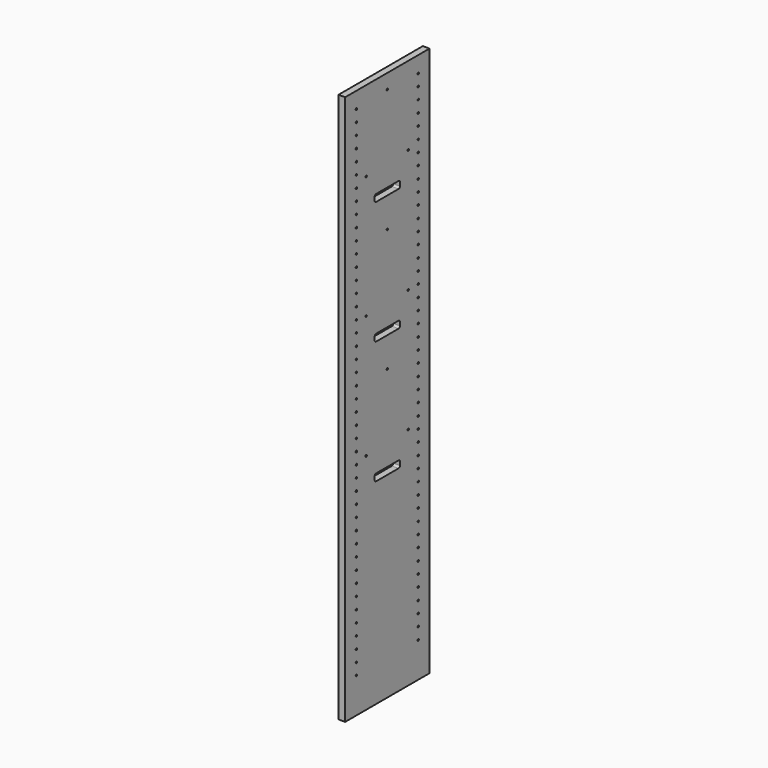
from build123d import *

# Parameters (mm, degrees)
F1_R     = 2.5
F2_DEPTH = 10
F1_W     = 300
F1_H     = 1565
F3_DEPTH = 19


with BuildPart() as f2:
    # F1 (on Right) → F2 (new body)
    with BuildSketch(Plane.YZ):
        with Locations((260, 1115)):
            Circle(F1_R)
        with Locations((260, 884)):
            Circle(F1_R)
        with Locations((260, 686)):
            Circle(F1_R)
        with Locations((260, 1544)):
            Circle(F1_R)
        with Locations((260, 1214)):
            Circle(F1_R)
        with Locations((260, 917)):
            Circle(F1_R)
        with Locations((260, 785)):
            Circle(F1_R)
        with Locations((260, 1445)):
            Circle(F1_R)
        with Locations((260, 752)):
            Circle(F1_R)
        with Locations((260, 719)):
            Circle(F1_R)
        with Locations((260, 620)):
            Circle(F1_R)
        with Locations((260, 1346)):
            Circle(F1_R)
        with Locations((260, 1247)):
            Circle(F1_R)
        with Locations((260, 950)):
            Circle(F1_R)
        with Locations((260, 1181)):
            Circle(F1_R)
        with Locations((260, 818)):
            Circle(F1_R)
        with Locations((260, 587)):
            Circle(F1_R)
        with Locations((260, 653)):
            Circle(F1_R)
        with Locations((260, 1016)):
            Circle(F1_R)
        with Locations((260, 1049)):
            Circle(F1_R)
        with Locations((260, 1148)):
            Circle(F1_R)
        with Locations((260, 1511)):
            Circle(F1_R)
        with Locations((260, 1412)):
            Circle(F1_R)
        with Locations((260, 983)):
            Circle(F1_R)
        with Locations((260, 1313)):
            Circle(F1_R)
        with Locations((260, 1478)):
            Circle(F1_R)
        with Locations((260, 851)):
            Circle(F1_R)
        with Locations((260, 1379)):
            Circle(F1_R)
        with Locations((260, 1082)):
            Circle(F1_R)
        with Locations((260, 1280)):
            Circle(F1_R)
        with Locations((40, 587)):
            Circle(F1_R)
        with Locations((40, 653)):
            Circle(F1_R)
        with Locations((40, 620)):
            Circle(F1_R)
        with Locations((40, 422)):
            Circle(F1_R)
        with Locations((40, 1478)):
            Circle(F1_R)
        with Locations((40, 389)):
            Circle(F1_R)
        with Locations((40, 983)):
            Circle(F1_R)
        with Locations((40, 1346)):
            Circle(F1_R)
        with Locations((40, 818)):
            Circle(F1_R)
        with Locations((40, 851)):
            Circle(F1_R)
        with Locations((40, 455)):
            Circle(F1_R)
        with Locations((40, 719)):
            Circle(F1_R)
        with Locations((40, 356)):
            Circle(F1_R)
        with Locations((40, 257)):
            Circle(F1_R)
        with Locations((40, 785)):
            Circle(F1_R)
        with Locations((40, 1082)):
            Circle(F1_R)
        with Locations((40, 1511)):
            Circle(F1_R)
        with Locations((40, 1049)):
            Circle(F1_R)
        with Locations((40, 554)):
            Circle(F1_R)
        with Locations((40, 884)):
            Circle(F1_R)
        with Locations((40, 1313)):
            Circle(F1_R)
        with Locations((40, 1181)):
            Circle(F1_R)
        with Locations((40, 686)):
            Circle(F1_R)
        with Locations((40, 1544)):
            Circle(F1_R)
        with Locations((40, 1148)):
            Circle(F1_R)
        with Locations((40, 1412)):
            Circle(F1_R)
        with Locations((40, 224)):
            Circle(F1_R)
        with Locations((40, 1445)):
            Circle(F1_R)
        with Locations((40, 917)):
            Circle(F1_R)
        with Locations((40, 1016)):
            Circle(F1_R)
        with Locations((40, 950)):
            Circle(F1_R)
        with Locations((40, 1280)):
            Circle(F1_R)
        with Locations((40, 1214)):
            Circle(F1_R)
        with Locations((40, 752)):
            Circle(F1_R)
        with Locations((40, 323)):
            Circle(F1_R)
        with Locations((40, 488)):
            Circle(F1_R)
        with Locations((40, 1247)):
            Circle(F1_R)
        with Locations((40, 1115)):
            Circle(F1_R)
        with Locations((40, 521)):
            Circle(F1_R)
        with Locations((40, 290)):
            Circle(F1_R)
        with Locations((40, 1379)):
            Circle(F1_R)
        with Locations((260, 521)):
            Circle(F1_R)
        with Locations((260, 389)):
            Circle(F1_R)
        with Locations((260, 191)):
            Circle(F1_R)
        with Locations((260, 422)):
            Circle(F1_R)
        with Locations((260, 125)):
            Circle(F1_R)
        with Locations((260, 224)):
            Circle(F1_R)
        with Locations((260, 290)):
            Circle(F1_R)
        with Locations((260, 455)):
            Circle(F1_R)
        with Locations((260, 488)):
            Circle(F1_R)
        with Locations((260, 257)):
            Circle(F1_R)
        with Locations((260, 158)):
            Circle(F1_R)
        with Locations((260, 356)):
            Circle(F1_R)
        with Locations((260, 554)):
            Circle(F1_R)
        with Locations((260, 323)):
            Circle(F1_R)
        with Locations((40, 191)):
            Circle(F1_R)
        with Locations((40, 158)):
            Circle(F1_R)
        with Locations((40, 125)):
            Circle(F1_R)
    extrude(amount=F2_DEPTH)

    # F1 (on Right) → F3 (join)
    with BuildSketch(Plane.YZ):
        with Locations((150, 807.5)):
            Rectangle(F1_W, F1_H)
        with Locations((40, 125)):
            Circle(F1_R, mode=Mode.SUBTRACT)
        with Locations((40, 158)):
            Circle(F1_R, mode=Mode.SUBTRACT)
        with Locations((40, 191)):
            Circle(F1_R, mode=Mode.SUBTRACT)
        with Locations((40, 224)):
            Circle(F1_R, mode=Mode.SUBTRACT)
        with Locations((40, 257)):
            Circle(F1_R, mode=Mode.SUBTRACT)
        with Locations((40, 290)):
            Circle(F1_R, mode=Mode.SUBTRACT)
        with Locations((40, 323)):
            Circle(F1_R, mode=Mode.SUBTRACT)
        with Locations((40, 356)):
            Circle(F1_R, mode=Mode.SUBTRACT)
        with Locations((40, 389)):
            Circle(F1_R, mode=Mode.SUBTRACT)
        with Locations((40, 422)):
            Circle(F1_R, mode=Mode.SUBTRACT)
        with Locations((40, 455)):
            Circle(F1_R, mode=Mode.SUBTRACT)
        with Locations((40, 488)):
            Circle(F1_R, mode=Mode.SUBTRACT)
        with Locations((40, 521)):
            Circle(F1_R, mode=Mode.SUBTRACT)
        with Locations((40, 554)):
            Circle(F1_R, mode=Mode.SUBTRACT)
        with Locations((40, 587)):
            Circle(F1_R, mode=Mode.SUBTRACT)
        with Locations((40, 620)):
            Circle(F1_R, mode=Mode.SUBTRACT)
        with Locations((40, 653)):
            Circle(F1_R, mode=Mode.SUBTRACT)
        with Locations((40, 686)):
            Circle(F1_R, mode=Mode.SUBTRACT)
        with Locations((74.466043, 661.2)):
            Circle(F1_R, mode=Mode.SUBTRACT)
        with Locations((40, 719)):
            Circle(F1_R, mode=Mode.SUBTRACT)
        with Locations((40, 752)):
            Circle(F1_R, mode=Mode.SUBTRACT)
        with Locations((40, 785)):
            Circle(F1_R, mode=Mode.SUBTRACT)
        with Locations((260, 125)):
            Circle(F1_R, mode=Mode.SUBTRACT)
        with Locations((260, 158)):
            Circle(F1_R, mode=Mode.SUBTRACT)
        with Locations((260, 191)):
            Circle(F1_R, mode=Mode.SUBTRACT)
        with Locations((260, 224)):
            Circle(F1_R, mode=Mode.SUBTRACT)
        with Locations((260, 257)):
            Circle(F1_R, mode=Mode.SUBTRACT)
        with Locations((260, 290)):
            Circle(F1_R, mode=Mode.SUBTRACT)
        with Locations((260, 323)):
            Circle(F1_R, mode=Mode.SUBTRACT)
        with Locations((260, 356)):
            Circle(F1_R, mode=Mode.SUBTRACT)
        with Locations((260, 389)):
            Circle(F1_R, mode=Mode.SUBTRACT)
        with BuildLine():
            ThreePointArc((195, 588), (193.535534, 584.464466), (190, 583))
            Line((190, 583), (110, 583))
            ThreePointArc((110, 583), (106.464466, 584.464466), (105, 588))
            Line((105, 588), (105, 598))
            ThreePointArc((105, 598), (106.464466, 601.535534), (110, 603))
            Line((110, 603), (190, 603))
            ThreePointArc((190, 603), (193.535534, 601.535534), (195, 598))
            Line((195, 598), (195, 588))
        make_face(mode=Mode.SUBTRACT)
        with Locations((224.466043, 666.344946)):
            Circle(F1_R, mode=Mode.SUBTRACT)
        with Locations((260, 422)):
            Circle(F1_R, mode=Mode.SUBTRACT)
        with Locations((260, 455)):
            Circle(F1_R, mode=Mode.SUBTRACT)
        with Locations((260, 488)):
            Circle(F1_R, mode=Mode.SUBTRACT)
        with Locations((260, 521)):
            Circle(F1_R, mode=Mode.SUBTRACT)
        with Locations((260, 554)):
            Circle(F1_R, mode=Mode.SUBTRACT)
        with Locations((260, 587)):
            Circle(F1_R, mode=Mode.SUBTRACT)
        with Locations((260, 620)):
            Circle(F1_R, mode=Mode.SUBTRACT)
        with Locations((260, 653)):
            Circle(F1_R, mode=Mode.SUBTRACT)
        with Locations((260, 686)):
            Circle(F1_R, mode=Mode.SUBTRACT)
        with Locations((260, 719)):
            Circle(F1_R, mode=Mode.SUBTRACT)
        with Locations((260, 752)):
            Circle(F1_R, mode=Mode.SUBTRACT)
        with Locations((260, 785)):
            Circle(F1_R, mode=Mode.SUBTRACT)
        with Locations((40, 818)):
            Circle(F1_R, mode=Mode.SUBTRACT)
        with Locations((40, 851)):
            Circle(F1_R, mode=Mode.SUBTRACT)
        with Locations((40, 884)):
            Circle(F1_R, mode=Mode.SUBTRACT)
        with Locations((40, 917)):
            Circle(F1_R, mode=Mode.SUBTRACT)
        with Locations((40, 950)):
            Circle(F1_R, mode=Mode.SUBTRACT)
        with Locations((40, 983)):
            Circle(F1_R, mode=Mode.SUBTRACT)
        with Locations((40, 1016)):
            Circle(F1_R, mode=Mode.SUBTRACT)
        with Locations((40, 1049)):
            Circle(F1_R, mode=Mode.SUBTRACT)
        with Locations((40, 1082)):
            Circle(F1_R, mode=Mode.SUBTRACT)
        with Locations((74.466043, 1011.2)):
            Circle(F1_R, mode=Mode.SUBTRACT)
        with Locations((40, 1115)):
            Circle(F1_R, mode=Mode.SUBTRACT)
        with Locations((40, 1148)):
            Circle(F1_R, mode=Mode.SUBTRACT)
        with Locations((40, 1181)):
            Circle(F1_R, mode=Mode.SUBTRACT)
        with BuildLine():
            ThreePointArc((195, 938), (193.535534, 934.464466), (190, 933))
            Line((190, 933), (110, 933))
            ThreePointArc((110, 933), (106.464466, 934.464466), (105, 938))
            Line((105, 938), (105, 948))
            ThreePointArc((105, 948), (106.464466, 951.535534), (110, 953))
            Line((110, 953), (190, 953))
            ThreePointArc((190, 953), (193.535534, 951.535534), (195, 948))
            Line((195, 948), (195, 938))
        make_face(mode=Mode.SUBTRACT)
        with Locations((40, 1214)):
            Circle(F1_R, mode=Mode.SUBTRACT)
        with Locations((40, 1247)):
            Circle(F1_R, mode=Mode.SUBTRACT)
        with Locations((40, 1280)):
            Circle(F1_R, mode=Mode.SUBTRACT)
        with Locations((40, 1313)):
            Circle(F1_R, mode=Mode.SUBTRACT)
        with Locations((40, 1346)):
            Circle(F1_R, mode=Mode.SUBTRACT)
        with Locations((40, 1379)):
            Circle(F1_R, mode=Mode.SUBTRACT)
        with Locations((74.466043, 1361.2)):
            Circle(F1_R, mode=Mode.SUBTRACT)
        with Locations((40, 1412)):
            Circle(F1_R, mode=Mode.SUBTRACT)
        with Locations((40, 1445)):
            Circle(F1_R, mode=Mode.SUBTRACT)
        with Locations((40, 1478)):
            Circle(F1_R, mode=Mode.SUBTRACT)
        with Locations((40, 1511)):
            Circle(F1_R, mode=Mode.SUBTRACT)
        with Locations((40, 1544)):
            Circle(F1_R, mode=Mode.SUBTRACT)
        with Locations((150, 848)):
            Circle(F1_R, mode=Mode.SUBTRACT)
        with Locations((150, 1198)):
            Circle(F1_R, mode=Mode.SUBTRACT)
        with Locations((224.466043, 1016.344946)):
            Circle(F1_R, mode=Mode.SUBTRACT)
        with Locations((260, 818)):
            Circle(F1_R, mode=Mode.SUBTRACT)
        with Locations((260, 851)):
            Circle(F1_R, mode=Mode.SUBTRACT)
        with Locations((260, 884)):
            Circle(F1_R, mode=Mode.SUBTRACT)
        with Locations((260, 917)):
            Circle(F1_R, mode=Mode.SUBTRACT)
        with Locations((260, 950)):
            Circle(F1_R, mode=Mode.SUBTRACT)
        with Locations((260, 983)):
            Circle(F1_R, mode=Mode.SUBTRACT)
        with Locations((260, 1016)):
            Circle(F1_R, mode=Mode.SUBTRACT)
        with Locations((260, 1049)):
            Circle(F1_R, mode=Mode.SUBTRACT)
        with Locations((260, 1082)):
            Circle(F1_R, mode=Mode.SUBTRACT)
        with Locations((260, 1115)):
            Circle(F1_R, mode=Mode.SUBTRACT)
        with Locations((260, 1148)):
            Circle(F1_R, mode=Mode.SUBTRACT)
        with Locations((260, 1181)):
            Circle(F1_R, mode=Mode.SUBTRACT)
        with BuildLine():
            ThreePointArc((195, 1288), (193.535534, 1284.464466), (190, 1283))
            Line((190, 1283), (110, 1283))
            ThreePointArc((110, 1283), (106.464466, 1284.464466), (105, 1288))
            Line((105, 1288), (105, 1298))
            ThreePointArc((105, 1298), (106.464466, 1301.535534), (110, 1303))
            Line((110, 1303), (190, 1303))
            ThreePointArc((190, 1303), (193.535534, 1301.535534), (195, 1298))
            Line((195, 1298), (195, 1288))
        make_face(mode=Mode.SUBTRACT)
        with Locations((224.466043, 1366.344946)):
            Circle(F1_R, mode=Mode.SUBTRACT)
        with Locations((150, 1548)):
            Circle(F1_R, mode=Mode.SUBTRACT)
        with Locations((260, 1214)):
            Circle(F1_R, mode=Mode.SUBTRACT)
        with Locations((260, 1247)):
            Circle(F1_R, mode=Mode.SUBTRACT)
        with Locations((260, 1280)):
            Circle(F1_R, mode=Mode.SUBTRACT)
        with Locations((260, 1313)):
            Circle(F1_R, mode=Mode.SUBTRACT)
        with Locations((260, 1346)):
            Circle(F1_R, mode=Mode.SUBTRACT)
        with Locations((260, 1379)):
            Circle(F1_R, mode=Mode.SUBTRACT)
        with Locations((260, 1412)):
            Circle(F1_R, mode=Mode.SUBTRACT)
        with Locations((260, 1445)):
            Circle(F1_R, mode=Mode.SUBTRACT)
        with Locations((260, 1478)):
            Circle(F1_R, mode=Mode.SUBTRACT)
        with Locations((260, 1511)):
            Circle(F1_R, mode=Mode.SUBTRACT)
        with Locations((260, 1544)):
            Circle(F1_R, mode=Mode.SUBTRACT)
    extrude(amount=F3_DEPTH)


solid = f2.part
